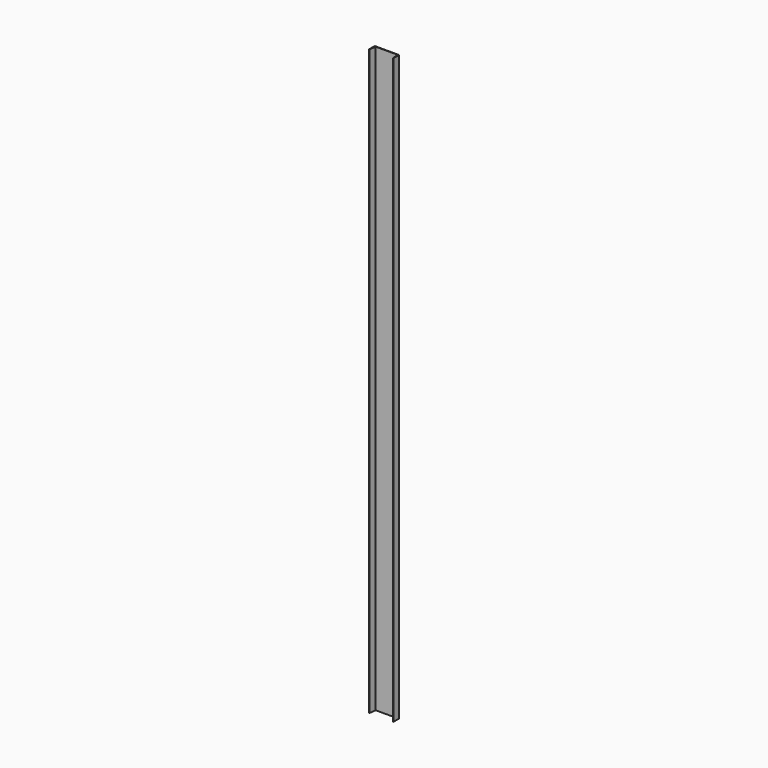
from build123d import *

# Parameters (mm, degrees)
F1_DEPTH = 6096
F2_R     = 1.27
F3_R     = 3.175


with BuildPart() as f1:
    # F0 (on Top) → F1 (new body)
    with BuildSketch(Plane.XY):
        Polygon((254, 0), (0, 0), (0, -76.2), (4.7625, -76.2), (12.7, -4.7625), (241.3, -4.7625), (249.2375, -76.2), (254, -76.2), align=None)
    extrude(amount=F1_DEPTH)

    # F2
    f2_edges = [f1.edges().sort_by_distance(p)[0] for p in [
        (0, -76.2, 3048),
        (4.7625, -76.2, 3048),
        (12.7, -4.7625, 3048),
        (249.2375, -76.2, 3048),
        (254, -76.2, 3048),
        (254, 0, 3048),
    ]]
    fillet(f2_edges, radius=F2_R)

    # F3
    f3_edges = [f1.edges().sort_by_distance(p)[0] for p in [
        (0, 0, 3048),
    ]]
    fillet(f3_edges, radius=F3_R)


solid = f1.part
